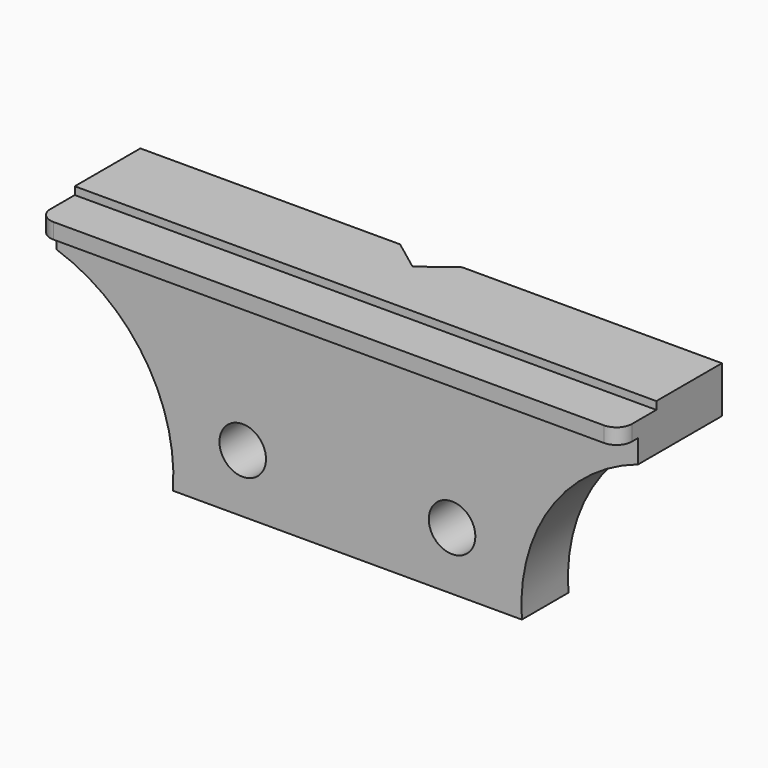
from build123d import *

# Parameters (mm, degrees)
F1_DEPTH      = 75
F4_DEPTH      = 25
F4_DEPTH_BACK = 25
F5_R          = 3
F6_DEPTH      = 25
F6_DEPTH_BACK = 25
F7_R          = 2
F9_DEPTH      = 50


with BuildPart() as f1:
    # F0 (on Right) → F1 (new body)
    with BuildSketch(Plane.YZ):
        Polygon((-7.5, 0), (0, 0), (0, 22.5), (6, 22.5), (6, 28.5), (-4.5733697172, 28.5), (-4.5733697172, 27.5), (-10.5, 27.5), (-10.5, 25.5), (-7.5, 25.5), align=None)
    extrude(amount=F1_DEPTH)

    # F2 (on Front) → F4 (cut, two sides)
    with BuildSketch(Plane.XZ) as f4_sk:
        with BuildLine():
            Line((18.9505368471, -15.0200538337), (15, 0))
            ThreePointArc((15, 0), (11.3650779756, 13.8267186504), (0, 22.5))
            Line((0, 22.5), (-15.862300992, 22.5))
            Line((-15.862300992, 22.5), (-15.862300992, -15.0200538337))
            Line((-15.862300992, -15.0200538337), (18.9505368471, -15.0200538337))
        make_face()
        with BuildLine():
            Line((90.862300992, 22.5), (75, 22.5))
            ThreePointArc((75, 22.5), (63.6349220244, 13.8267186504), (60, 0))
            Line((60, 0), (56.0494631529, -15.0200538337))
            Line((56.0494631529, -15.0200538337), (90.862300992, -15.0200538337))
            Line((90.862300992, -15.0200538337), (90.862300992, 22.5))
        make_face()
    extrude(amount=-F4_DEPTH, mode=Mode.SUBTRACT)
    extrude(f4_sk.sketch, amount=F4_DEPTH_BACK, mode=Mode.SUBTRACT)

    # F5 (on Front) → F6 (cut, two sides)
    with BuildSketch(Plane.XZ) as f6_sk:
        with Locations((24, 7.5)):
            Circle(F5_R)
        with Locations((51, 7.5)):
            Circle(F5_R)
    extrude(amount=F6_DEPTH, mode=Mode.SUBTRACT)
    extrude(f6_sk.sketch, amount=-F6_DEPTH_BACK, mode=Mode.SUBTRACT)

    # F7
    f7_edges = [f1.edges().sort_by_distance(p)[0] for p in [
        (75, -10.5, 26.5),
        (0, -10.5, 26.5),
    ]]
    fillet(f7_edges, radius=F7_R)

    # F8 (on Top) → F9 (cut)
    with BuildSketch(Plane.XY):
        Polygon((32.4930176139, 11.9444662705), (33.5, 6), (37.5, 3), (41.5, 6), (50.5435075659, 15.0021882955), align=None)
    extrude(amount=F9_DEPTH, mode=Mode.SUBTRACT)


solid = f1.part
